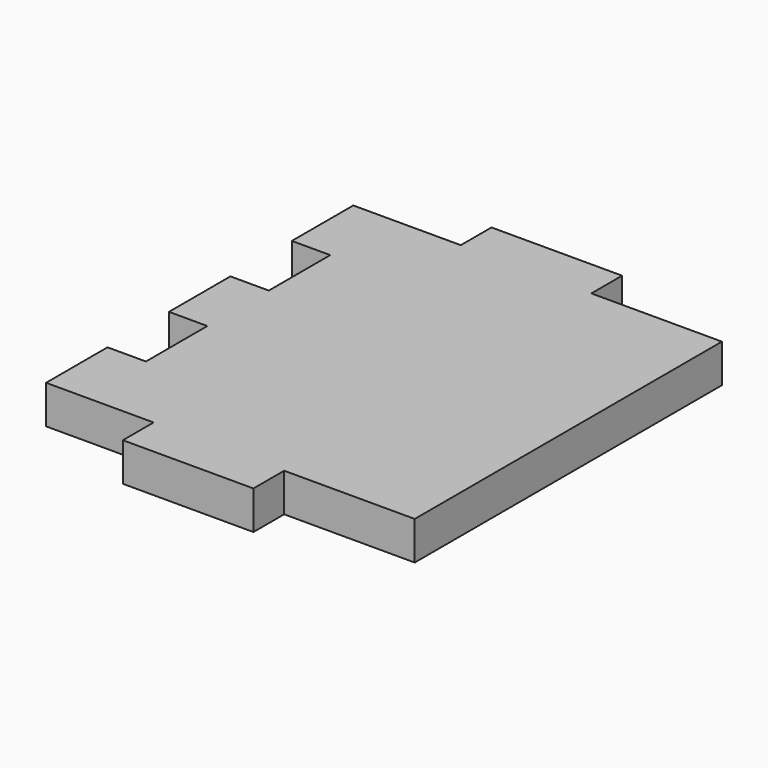
from build123d import *

# Parameters (mm, degrees)
F1_DEPTH = 5


with BuildPart() as f1:
    # F0 (on Top) → F1 (new body)
    with BuildSketch(Plane.XY):
        Polygon((21.5, -25), (21.5, 25), (4.5, 25), (4.5, 30), (-12.5, 30), (-12.5, 25), (-21.5, 25), (-26.5, 25), (-26.5, 15), (-21.5, 15), (-21.5, 5), (-26.5, 5), (-26.5, -5), (-21.5, -5), (-21.5, -15), (-26.5, -15), (-26.5, -25), (-21.5, -25), (-12.5, -25), (-12.5, -30), (4.5, -30), (4.5, -25), align=None)
    extrude(amount=F1_DEPTH)


solid = f1.part
